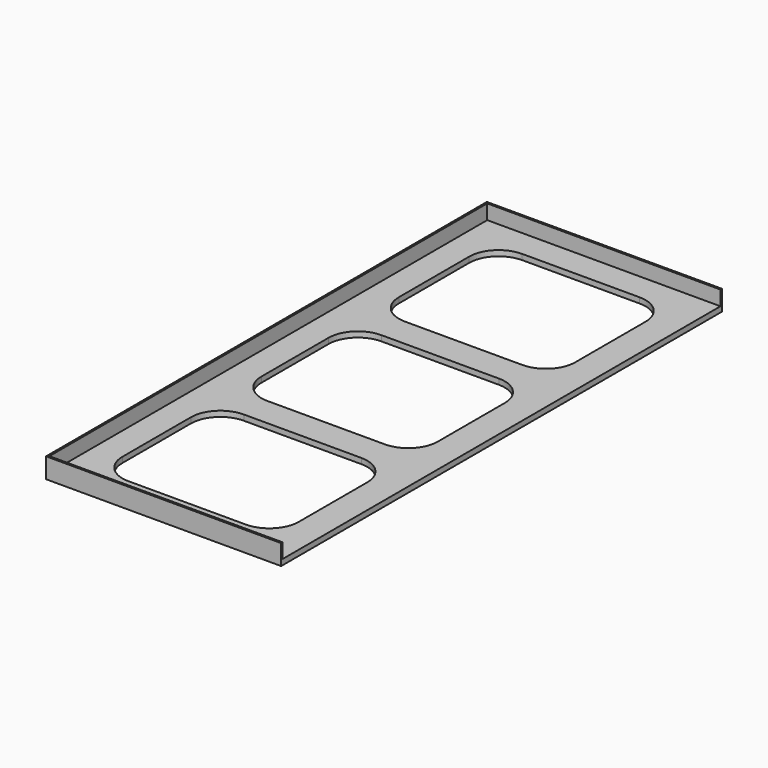
from build123d import *

# Parameters (mm, degrees)
F0_W     = 64
F0_H     = 150
F1_DEPTH = 1.5
F2_W     = 48
F2_H     = 39.9
F2_H_2   = 38.8
F2_H_3   = 39.3
F3_DEPTH = 1.501
F4_R     = 8
F6_DEPTH = 4


with BuildPart() as f1:
    # F0 (on Top) → F1 (new body)
    with BuildSketch(Plane.XY):
        with Locations((32, 75)):
            Rectangle(F0_W, F0_H)
    extrude(amount=F1_DEPTH)

    # F2 (on face) → F3 (cut, through all)
    with BuildSketch(Plane.XY.offset(1.5)):
        with Locations((32, 122.05)):
            Rectangle(F2_W, F2_H)
        with Locations((32, 74.7)):
            Rectangle(F2_W, F2_H_2)
        with Locations((32, 27.65)):
            Rectangle(F2_W, F2_H_3)
    extrude(amount=-F3_DEPTH, mode=Mode.SUBTRACT)

    # F4
    f4_edges = [f1.edges().sort_by_distance(p)[0] for p in [
        (8, 142, 0.75),
        (8, 94.1, 0.75),
        (8, 47.3, 0.75),
        (8, 102.1, 0.75),
        (8, 55.3, 0.75),
        (8, 8, 0.75),
        (56, 102.1, 0.75),
        (56, 55.3, 0.75),
        (56, 8, 0.75),
        (56, 142, 0.75),
        (56, 94.1, 0.75),
        (56, 47.3, 0.75),
    ]]
    fillet(f4_edges, radius=F4_R)

    # F5 (on face) → F6 (join)
    with BuildSketch(Plane.XY.offset(1.5)):
        Polygon((0, 0), (64, 0), (64, 0.5), (0.5, 0.5), (0.5, 149.5), (64, 149.5), (64, 150), (0, 150), align=None)
    extrude(amount=F6_DEPTH)


solid = f1.part
